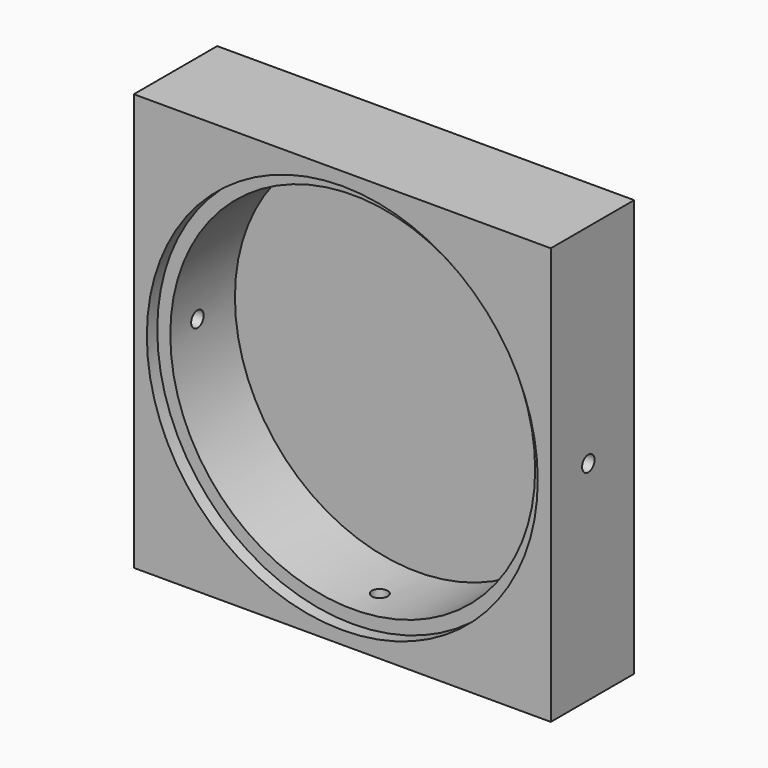
from build123d import *

# Parameters (mm, degrees)
F0_W     = 101.6
F0_H     = 101.6
F0_R     = 44.45
F1_DEPTH = 22.86
F3_R     = 1.905
F4_DEPTH = 101.601
F2_R     = 1.905
F5_DEPTH = 6.3918402903
F6_W     = 101.6
F6_H     = 101.6
F7_DEPTH = 2.54
F8_R     = 47.625
F9_DEPTH = 3.175


with BuildPart() as f1:
    # F0 (on Front) → F1 (new body)
    with BuildSketch(Plane.XZ):
        Rectangle(F0_W, F0_H)
        Circle(F0_R, mode=Mode.SUBTRACT)
    extrude(amount=F1_DEPTH)

    # F3 (on face) → F4 (cut, through all)
    with BuildSketch(Plane.YZ.offset(50.8)):
        with Locations((-11.43, 0)):
            Circle(F3_R)
    extrude(amount=-F4_DEPTH, mode=Mode.SUBTRACT)

    # F2 (on face) → F5 (cut, through all)
    with BuildSketch(Plane(origin=(0, 0, -50.8), x_dir=(1, 0, 0), z_dir=(0, 0, -1))):
        with Locations((0, 11.43)):
            Circle(F2_R)
    extrude(amount=-F5_DEPTH, mode=Mode.SUBTRACT)

    # F6 (on Front) → F7 (join)
    with BuildSketch(Plane.XZ):
        Rectangle(F6_W, F6_H)
    extrude(amount=-F7_DEPTH)

    # F8 (on face) → F9 (cut)
    with BuildSketch(Plane.XZ.offset(22.86)):
        Circle(F8_R)
    extrude(amount=-F9_DEPTH, mode=Mode.SUBTRACT)


solid = f1.part
